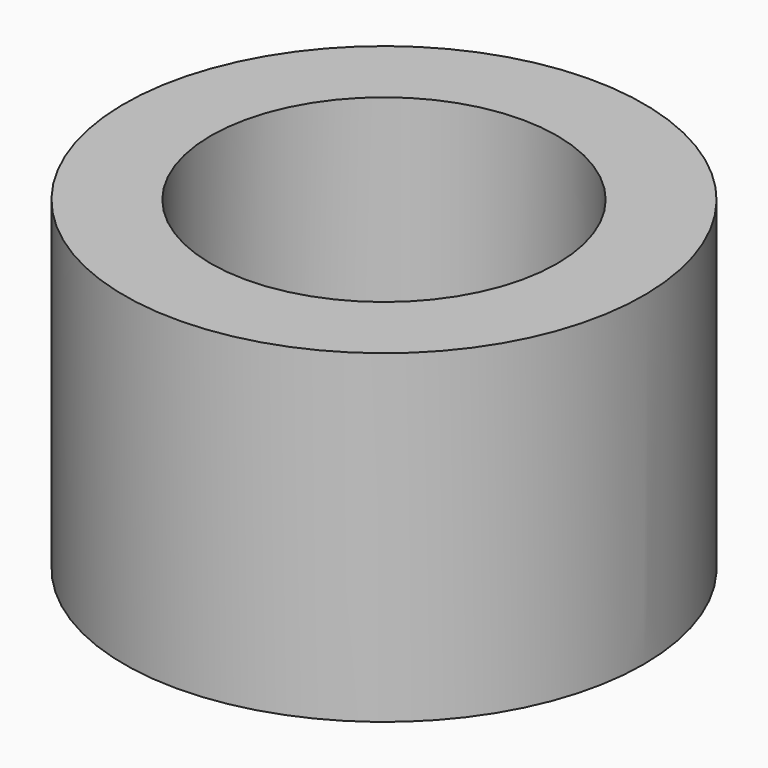
from build123d import *

# Parameters (mm, degrees)
CYLINDER024_R               = 5
CYLINDER024_DEPTH           = 2.5
CYLINDER019_R               = 12
CYLINDER019_DEPTH           = 2.5
CYLINDER027_R               = 8
CYLINDER027_DEPTH           = 12.5
CYLINDER026_R               = 12
CYLINDER026_DEPTH           = 12.5
CYLINDER026_PLACEMENT_ANGLE = 1


with BuildPart() as largeplughole:
    # Cylinder024 → Cylinder024 (new body)
    with BuildSketch(Plane.XY):
        Circle(CYLINDER024_R)
    extrude(amount=CYLINDER024_DEPTH)


with BuildPart() as largeplugbase001:
    # Cylinder019 → Cylinder019 (new body)
    with BuildSketch(Plane.XY):
        Circle(CYLINDER019_R)
    extrude(amount=CYLINDER019_DEPTH)

    # Cut008: cut LargePlugHole
    add(largeplughole.part, mode=Mode.SUBTRACT)


with BuildPart() as largeplugwallhole:
    # Cylinder027 → Cylinder027 (new body)
    with BuildSketch(Plane.XY.offset(2.5)):
        Circle(CYLINDER027_R)
    extrude(amount=CYLINDER027_DEPTH)


with BuildPart() as obj1:
    # Cylinder026 → Cylinder026 (new body)
    with BuildSketch(Plane.XY):
        Circle(CYLINDER026_R)
    extrude(amount=CYLINDER026_DEPTH)


with BuildPart() as obj1_1:
    # Cylinder026 placement: moved
    add(obj1.part.moved(Location((0, 0, 2.5))).rotate(Axis((0, 0, 2.5), (0, 0, 1)), CYLINDER026_PLACEMENT_ANGLE))

    # Cut007: cut LargePlugWallHole
    add(largeplugwallhole.part, mode=Mode.SUBTRACT)

    # Fusion029: union LargePlugBase001
    add(largeplugbase001.part)


with BuildPart() as obj1_2:
    # Fusion029 placement: moved
    add(obj1_1.part.moved(Location((0, -82.75, -2.5))))


solid = obj1_2.part
